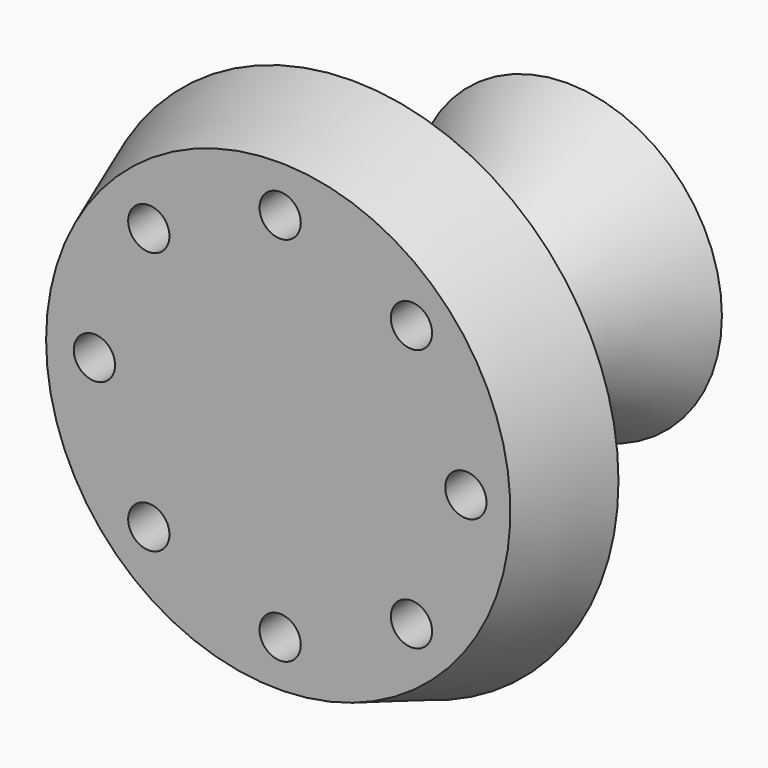
from build123d import *

# Parameters (mm, degrees)
F2_R     = 4
F3_DEPTH = 9


with BuildPart() as f1:
    # F0 (on Top) → F1 (revolve)
    with BuildSketch(Plane.XY):
        Polygon((-45.368532, 0.10141), (-0.368532, 0.10141), (-0.368532, 70.10141), (-30.368532, 70.10141), (-14.963966, 48.10141), (-14.963966, 38.10141), (-29.919996, 9.10141), (-41.919996, 9.10141), (-41.919996, 18.10141), (-51.919996, 18.10141), align=None)
    revolve(axis=Axis((-0.368532, 35.10141, 0), (0, 1, 0)))

    # F2 (on face) → F3 (cut, through all)
    with BuildSketch(Plane.XZ.offset(-0.10141)):
        with Locations((-36, 0)):
            Circle(F2_R)
        with Locations((-25.455844, -25.455844)):
            Circle(F2_R)
        with Locations((0, -36)):
            Circle(F2_R)
        with Locations((25.455844, -25.455844)):
            Circle(F2_R)
        with Locations((36, 0)):
            Circle(F2_R)
        with Locations((25.455844, 25.455844)):
            Circle(F2_R)
        with Locations((0, 36)):
            Circle(F2_R)
        with Locations((-25.455844, 25.455844)):
            Circle(F2_R)
    extrude(amount=-F3_DEPTH, mode=Mode.SUBTRACT)


solid = f1.part
